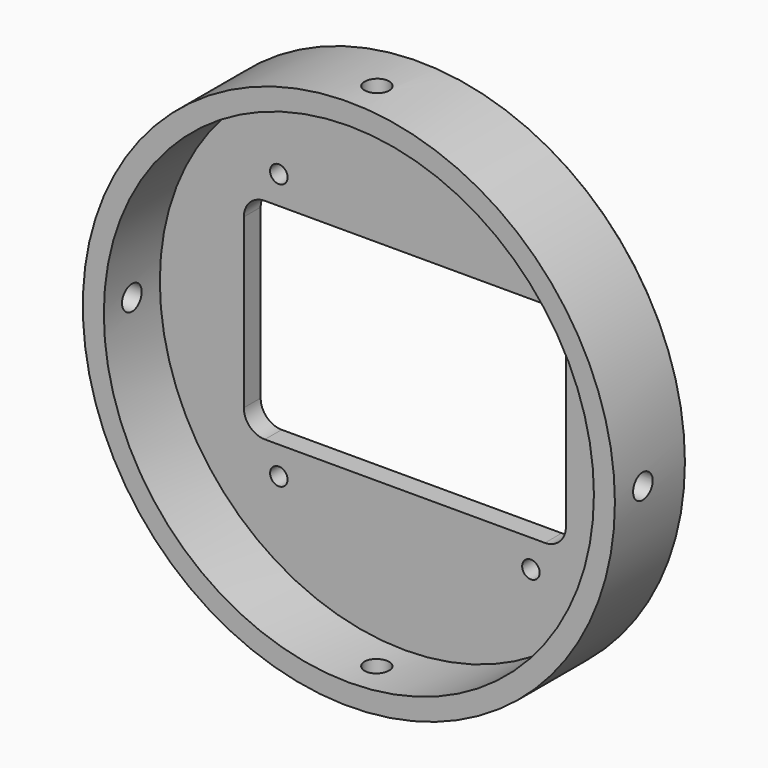
from build123d import *

# Parameters (mm, degrees)
F0_R     = 38
F1_DEPTH = 13
F2_T     = -3
F4_DEPTH = 25
F6_D     = 2.5
F9_D     = 3.5
F12_D    = 3.5
F13_SIZE = 0.5


with BuildPart() as f1:
    # F0 (on Front) → F1 (new body)
    with BuildSketch(Plane.XZ):
        Circle(F0_R)
    extrude(amount=F1_DEPTH)

    # F2
    f2_openings = [f1.faces().sort_by_distance(p)[0] for p in [
        (0, -13, 0),
    ]]
    offset(amount=F2_T, openings=f2_openings)

    # F3 (on face) → F4 (cut)
    with BuildSketch(Plane(origin=(0, 0, 0), x_dir=(-1, 0, 0), z_dir=(0, 1, 0))):
        with BuildLine():
            Line((20, 15), (-20, 15))
            ThreePointArc((-20, 15), (-22.1213203436, 14.1213203436), (-23, 12))
            Line((-23, 12), (-23, -12))
            ThreePointArc((-23, -12), (-22.1213203436, -14.1213203436), (-20, -15))
            Line((-20, -15), (20, -15))
            ThreePointArc((20, -15), (22.1213203436, -14.1213203436), (23, -12))
            Line((23, -12), (23, 12))
            ThreePointArc((23, 12), (22.1213203436, 14.1213203436), (20, 15))
        make_face()
    extrude(amount=-F4_DEPTH, mode=Mode.SUBTRACT)

    # F6 (through all)
    with Locations(Plane(origin=(0, 0, 0), x_dir=(-1, 0, 0), z_dir=(0, 1, 0))):
        with Locations((18, 19), (-18, 19), (-18, -19), (18, -19)):
            Hole(F6_D / 2)

    # F9 (through all)
    with Locations(Plane.YZ.offset(38)):
        with Locations((-8, 0)):
            Hole(F9_D / 2)

    # F12 (through all)
    with Locations(Plane.XY.offset(38)):
        with Locations((0, -8)):
            Hole(F12_D / 2)

    # F13
    f13_edges = [f1.edges().sort_by_distance(p)[0] for p in [
        (-38, 0, 0),
    ]]
    chamfer(f13_edges, length=F13_SIZE)


solid = f1.part
